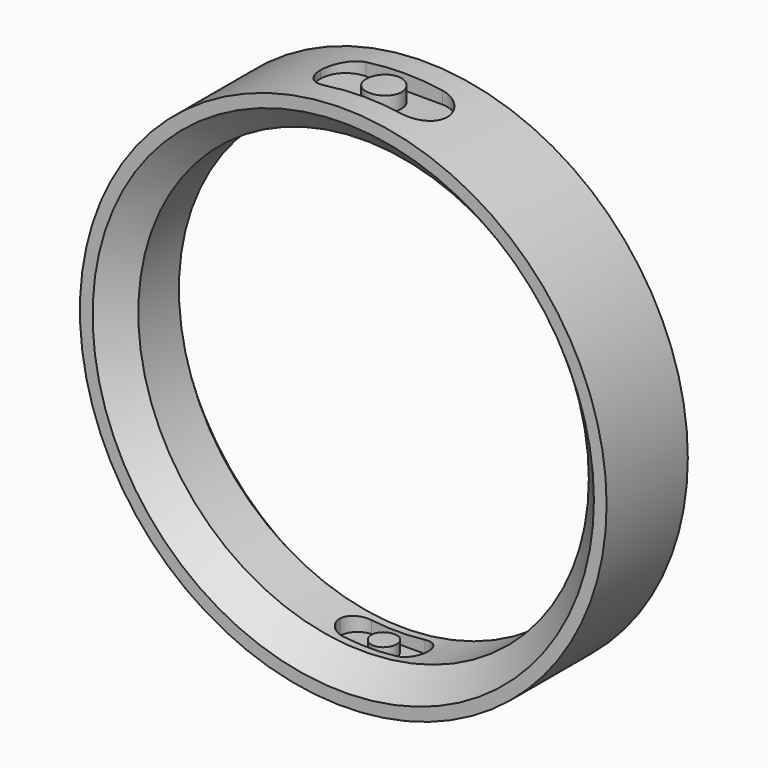
from build123d import *

# Parameters (mm, degrees)
F0_R          = 10.375
F0_R_2        = 8.875
F1_DEPTH      = 2
F1_DEPTH_BACK = 2
F2_SIZE       = 1
F4_START      = 9.775
F3_R          = 0.7
F4_DEPTH      = 15.225
F5_R          = 0.5
F6_DEPTH      = 9.3


with BuildPart() as f1:
    # F0 (on Front) → F1 (new body, two sides)
    with BuildSketch(Plane.XZ) as f1_sk:
        Circle(F0_R)
        Circle(F0_R_2, mode=Mode.SUBTRACT)
    extrude(amount=F1_DEPTH)
    extrude(f1_sk.sketch, amount=-F1_DEPTH_BACK)

    # F2
    f2_edges = [f1.edges().sort_by_distance(p)[0] for p in [
        (-8.875, -2, 0),
        (-8.875, 2, 0),
    ]]
    chamfer(f2_edges, length=F2_SIZE)

    # F3 (on Top) → F4 (cut)
    with BuildSketch(Plane.XY.offset(F4_START)):
        with BuildLine():
            Line((-1.5, -1), (1.5, -1))
            ThreePointArc((1.5, -1), (2.2071067812, -0.7071067812), (2.5, 0))
            ThreePointArc((2.5, 0), (2.2071067812, 0.7071067812), (1.5, 1))
            Line((1.5, 1), (-1.5, 1))
            ThreePointArc((-1.5, 1), (-2.2071067812, 0.7071067812), (-2.5, 0))
            ThreePointArc((-2.5, 0), (-2.2071067812, -0.7071067812), (-1.5, -1))
        make_face()
        Circle(F3_R, mode=Mode.SUBTRACT)
    extrude(amount=F4_DEPTH, mode=Mode.SUBTRACT)

    # F5 (on Top) → F6 (cut)
    with BuildSketch(Plane.XY):
        with BuildLine():
            ThreePointArc((1.7263360261, -2.2374776466), (1.521310773, -1.7425028998), (1.0263360261, -1.5374776466))
            Line((1.0263360261, -1.5374776466), (-1.0660886515, -1.5374776466))
            ThreePointArc((-1.0660886515, -1.5374776466), (-1.5610633983, -1.7425028998), (-1.7660886515, -2.2374776466))
            ThreePointArc((-1.7660886515, -2.2374776466), (-1.5610633983, -2.7324523935), (-1.0660886515, -2.9374776466))
            Line((-1.0660886515, -2.9374776466), (1.0263360261, -2.9374776466))
            ThreePointArc((1.0263360261, -2.9374776466), (1.521310773, -2.7324523935), (1.7263360261, -2.2374776466))
        make_face()
        with BuildLine():
            ThreePointArc((1.7563359968, -0.0024776423), (1.5513107436, 0.4924971045), (1.0563359968, 0.6975223577))
            Line((1.0563359968, 0.6975223577), (-1.0360886808, 0.6975223577))
            ThreePointArc((-1.0360886808, 0.6975223577), (-1.5310634277, 0.4924971045), (-1.7360886808, -0.0024776423))
            ThreePointArc((-1.7360886808, -0.0024776423), (-1.5310634277, -0.4974523892), (-1.0360886808, -0.7024776423))
            Line((-1.0360886808, -0.7024776423), (1.0563359968, -0.7024776423))
            ThreePointArc((1.0563359968, -0.7024776423), (1.5513107436, -0.4974523892), (1.7563359968, -0.0024776423))
        make_face()
        with Locations((0.0053813122, -0.0004659606)):
            Circle(F5_R, mode=Mode.SUBTRACT)
        with BuildLine():
            ThreePointArc((1.7263360261, 2.2689716425), (1.521310773, 2.7639463893), (1.0263360261, 2.9689716425))
            Line((1.0263360261, 2.9689716425), (-1.0660886515, 2.9689716425))
            ThreePointArc((-1.0660886515, 2.9689716425), (-1.5610633983, 2.7639463893), (-1.7660886515, 2.2689716425))
            ThreePointArc((-1.7660886515, 2.2689716425), (-1.5610633983, 1.7739968956), (-1.0660886515, 1.5689716425))
            Line((-1.0660886515, 1.5689716425), (1.0263360261, 1.5689716425))
            ThreePointArc((1.0263360261, 1.5689716425), (1.521310773, 1.7739968956), (1.7263360261, 2.2689716425))
        make_face()
    extrude(amount=-F6_DEPTH, mode=Mode.SUBTRACT)


solid = f1.part
